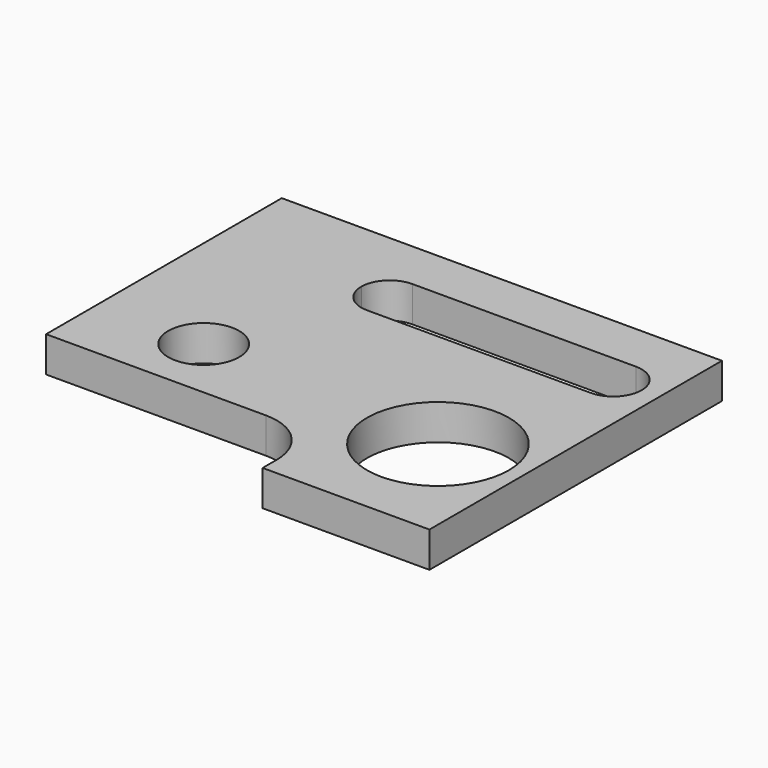
from build123d import *

# Parameters (mm, degrees)
F1_DEPTH = 25.4


with BuildPart() as f1:
    # F0 (on Top) → F1 (new body)
    with BuildSketch(Plane.XY):
        with BuildLine():
            ThreePointArc((-34.647605, -58.198605), (-60.047605, -32.798605), (-85.447605, -58.198605))
            ThreePointArc((-85.447605, -58.198605), (-60.047605, -83.598605), (-34.647605, -58.198605))
        make_face()
        with BuildLine():
            ThreePointArc((168.552395, -70.898605), (81.83137, -34.97758), (117.752395, -121.698605))
            ThreePointArc((117.752395, -121.698605), (153.673419, -106.819629), (168.552395, -70.898605))
        make_face()
        with BuildLine():
            Line((178.712395, 106.901395), (-136.247605, 106.901395))
            Line((-136.247605, 106.901395), (-136.247605, -58.198605))
            Line((-136.247605, -58.198605), (-136.247605, -103.918605))
            Line((-136.247605, -103.918605), (21.232395, -103.918605))
            ThreePointArc((21.232395, -103.918605), (48.173163, -115.077836), (59.332395, -142.018605))
            Line((59.332395, -142.018605), (59.332395, -154.718605))
            Line((59.332395, -154.718605), (117.752395, -154.718605))
            Line((117.752395, -154.718605), (178.712395, -154.718605))
            Line((178.712395, -154.718605), (178.712395, 30.701395))
            Line((178.712395, 30.701395), (178.712395, 106.901395))
        make_face()
        with BuildLine():
            ThreePointArc((-34.647605, -58.198605), (-60.047605, -83.598605), (-85.447605, -58.198605))
            ThreePointArc((-85.447605, -58.198605), (-60.047605, -32.798605), (-34.647605, -58.198605))
        make_face(mode=Mode.SUBTRACT)
        with BuildLine():
            ThreePointArc((168.552395, -70.898605), (153.673419, -106.819629), (117.752395, -121.698605))
            ThreePointArc((117.752395, -121.698605), (81.83137, -34.97758), (168.552395, -70.898605))
        make_face(mode=Mode.SUBTRACT)
        with BuildLine():
            Line((-14.327605, 71.341395), (145.692395, 71.341395))
            ThreePointArc((145.692395, 71.341395), (160.060805, 65.389805), (166.012395, 51.021395))
            ThreePointArc((166.012395, 51.021395), (160.060805, 36.652986), (145.692395, 30.701395))
            Line((145.692395, 30.701395), (-14.327605, 30.701395))
            ThreePointArc((-14.327605, 30.701395), (-28.696015, 36.652986), (-34.647605, 51.021395))
            ThreePointArc((-34.647605, 51.021395), (-28.696015, 65.389805), (-14.327605, 71.341395))
        make_face(mode=Mode.SUBTRACT)
    extrude(amount=F1_DEPTH)


solid = f1.part
